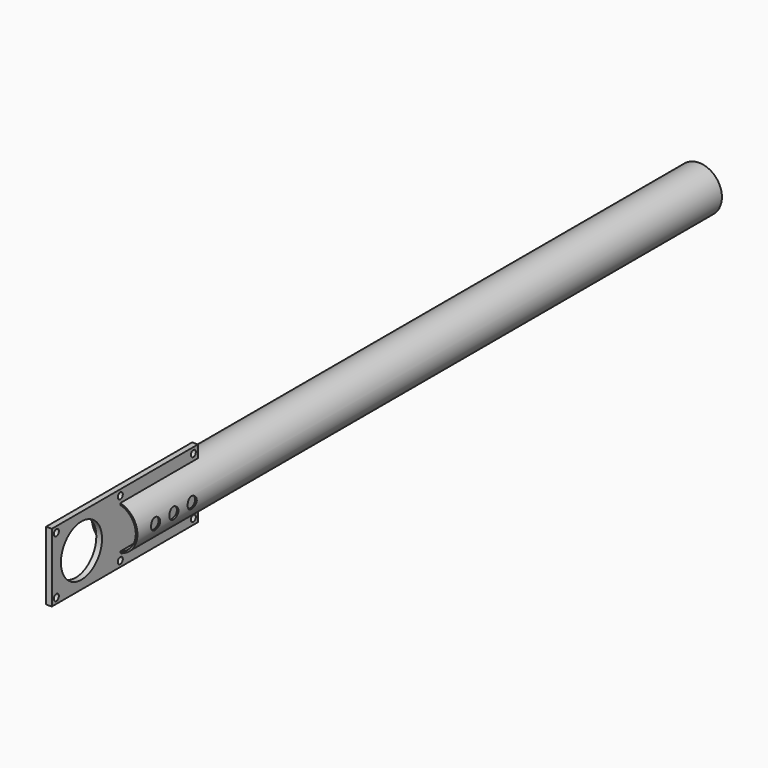
from build123d import *

# Parameters (mm, degrees)
F0_R          = 12.7
F0_R_2        = 11.811
F1_DEPTH      = 406.4
F2_R          = 3.175
F3_DEPTH      = 12.701
F3_DEPTH_BACK = 25.4
F4_W          = 101.6
F4_H          = 38.1
F4_R          = 1.7526
F4_R_2        = 14.2875
F4_R_3        = 3.175
F5_DEPTH      = 3.175


with BuildPart() as f1:
    # F0 (on Front) → F1 (new body)
    with BuildSketch(Plane.XZ):
        Circle(F0_R)
        Circle(F0_R_2, mode=Mode.SUBTRACT)
    extrude(amount=-F1_DEPTH)

    # F2 (on Right) → F3 (cut, two sides)
    with BuildSketch(Plane.YZ) as f3_sk:
        with Locations((12.7, 0)):
            Circle(F2_R)
        with Locations((25.4, 0)):
            Circle(F2_R)
        with Locations((38.1, 0)):
            Circle(F2_R)
    extrude(amount=F3_DEPTH, mode=Mode.SUBTRACT)
    extrude(f3_sk.sketch, amount=-F3_DEPTH_BACK, mode=Mode.SUBTRACT)


with BuildPart() as f5:
    # F4 (on Right) → F5 (new body)
    with BuildSketch(Plane.YZ):
        with Locations((3.175, 0)):
            Rectangle(F4_W, F4_H)
        with Locations((-44.45, -15.875)):
            Circle(F4_R, mode=Mode.SUBTRACT)
        with Locations((0, -15.875)):
            Circle(F4_R, mode=Mode.SUBTRACT)
        with Locations((50.8, -15.875)):
            Circle(F4_R, mode=Mode.SUBTRACT)
        with Locations((-26.9875, 0)):
            Circle(F4_R_2, mode=Mode.SUBTRACT)
        with Locations((-44.45, 15.875)):
            Circle(F4_R, mode=Mode.SUBTRACT)
        with Locations((0, 15.875)):
            Circle(F4_R, mode=Mode.SUBTRACT)
        with Locations((12.7, 0)):
            Circle(F4_R_3, mode=Mode.SUBTRACT)
        with Locations((25.4, 0)):
            Circle(F4_R_3, mode=Mode.SUBTRACT)
        with Locations((38.1, 0)):
            Circle(F4_R_3, mode=Mode.SUBTRACT)
        with Locations((50.8, 15.875)):
            Circle(F4_R, mode=Mode.SUBTRACT)
    extrude(amount=F5_DEPTH)


solid = Compound([f1.part, f5.part])
